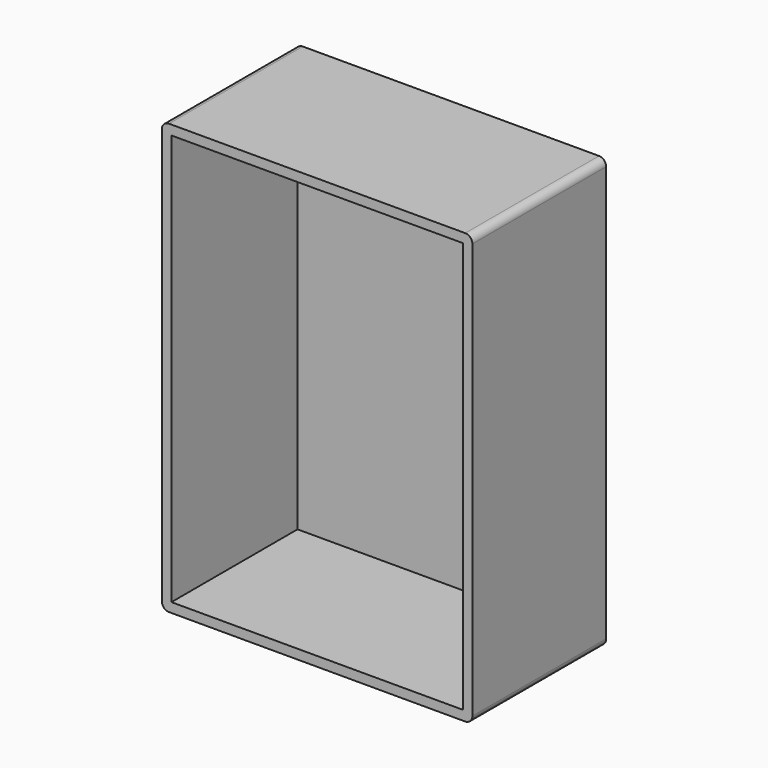
from build123d import *

# Parameters (mm, degrees)
F0_W     = 130
F0_H     = 180
F1_DEPTH = 70
F2_W     = 122
F2_H     = 172
F3_DEPTH = 66
F4_R     = 3


with BuildPart() as f1:
    # F0 (on Front) → F1 (new body)
    with BuildSketch(Plane.XZ):
        with Locations((83.118406, 10.718986)):
            Rectangle(F0_W, F0_H)
    extrude(amount=F1_DEPTH)

    # F2 (on face) → F3 (cut)
    with BuildSketch(Plane.XZ.offset(70)):
        with Locations((83.118406, 10.718986)):
            Rectangle(F2_W, F2_H)
    extrude(amount=-F3_DEPTH, mode=Mode.SUBTRACT)

    # F4
    f4_edges = [f1.edges().sort_by_distance(p)[0] for p in [
        (18.118406, -35, 100.718986),
        (148.118406, -35, 100.718986),
        (18.118406, -35, -79.281014),
        (148.118406, -35, -79.281014),
    ]]
    fillet(f4_edges, radius=F4_R)


solid = f1.part
